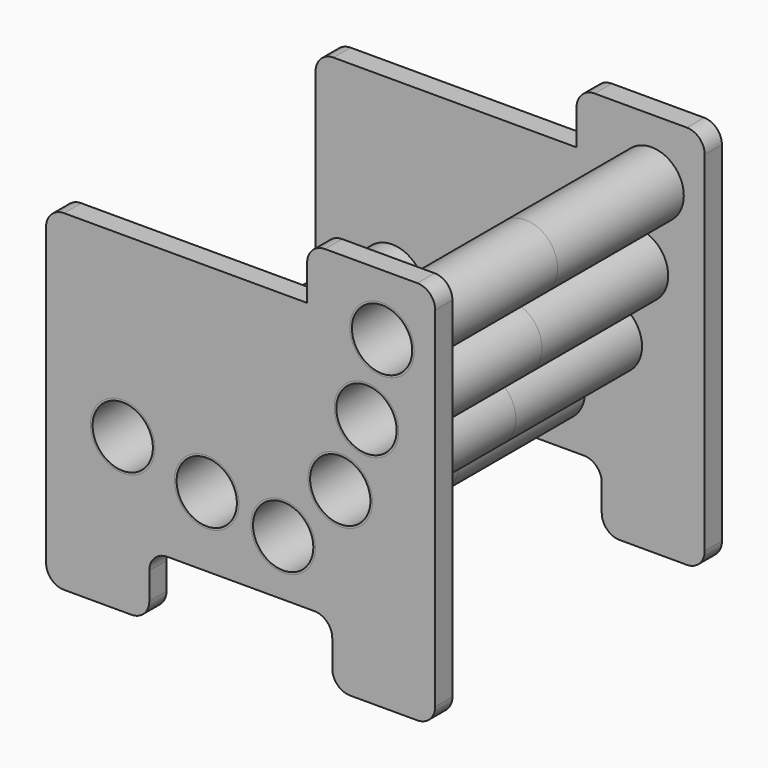
from build123d import *

# Parameters (mm, degrees)
F0_R     = 54
F0_R_2   = 50.5
F1_DEPTH = 300
F2_DEPTH = 36
F3_R     = 30


with BuildPart() as f1:
    # F0 (on Front) → F1 (new body)
    with BuildSketch(Plane.XZ):
        with Locations((2.838275, 31.916209)):
            Circle(F0_R)
        with Locations((2.838275, 31.916209)):
            Circle(F0_R_2, mode=Mode.SUBTRACT)
        with Locations((-23.267038, -94.512634)):
            Circle(F0_R)
        with Locations((-23.267038, -94.512634)):
            Circle(F0_R_2, mode=Mode.SUBTRACT)
        with Locations((-67.129791, -212.924823)):
            Circle(F0_R)
        with Locations((-67.129791, -212.924823)):
            Circle(F0_R_2, mode=Mode.SUBTRACT)
        with Locations((-162.713379, -312.140137)):
            Circle(F0_R)
        with Locations((-162.713379, -312.140137)):
            Circle(F0_R_2, mode=Mode.SUBTRACT)
        with Locations((-290.700555, -288.65701)):
            Circle(F0_R)
        with Locations((-290.700555, -288.65701)):
            Circle(F0_R_2, mode=Mode.SUBTRACT)
        with Locations((-431.335568, -252.593398)):
            Circle(F0_R)
        with Locations((-431.335568, -252.593398)):
            Circle(F0_R_2, mode=Mode.SUBTRACT)
    extrude(amount=F1_DEPTH)


with BuildPart() as f2:
    # F0 (on Front) → F2 (new body)
    with BuildSketch(Plane.XZ):
        Polygon((91.865547, -405.510087), (91.865547, 133.993775), (-117.666478, 133.993775), (-122.666478, 133.993775), (-122.621469, 44.798955), (-559.689343, 44.798955), (-559.689343, -405.510087), (-559.689343, -510.510087), (-386.821479, -510.510087), (-386.821479, -405.510087), (-80.547474, -405.510087), (-80.547474, -510.510087), (91.865547, -510.510087), align=None)
        with Locations((-431.335568, -252.593398)):
            Circle(F0_R, mode=Mode.SUBTRACT)
        with Locations((-290.700555, -288.65701)):
            Circle(F0_R, mode=Mode.SUBTRACT)
        with Locations((-162.713379, -312.140137)):
            Circle(F0_R, mode=Mode.SUBTRACT)
        with Locations((-67.129791, -212.924823)):
            Circle(F0_R, mode=Mode.SUBTRACT)
        with Locations((-23.267038, -94.512634)):
            Circle(F0_R, mode=Mode.SUBTRACT)
        with Locations((2.838275, 31.916209)):
            Circle(F0_R, mode=Mode.SUBTRACT)
    extrude(amount=F2_DEPTH)

    # F3
    f3_edges = [f2.edges().sort_by_distance(p)[0] for p in [
        (-122.666478, -18, 133.993775),
        (-559.689343, -18, 44.798955),
        (-559.689343, -18, -510.510087),
        (-386.821479, -18, -510.510087),
        (-80.547474, -18, -510.510087),
        (-80.547474, -18, -405.510087),
        (-386.821479, -18, -405.510087),
        (91.865547, -18, -510.510087),
        (91.865547, -18, 133.993775),
    ]]
    fillet(f3_edges, radius=F3_R)


with BuildPart() as f4_1:
    # F4: instance of F1
    add(f1.part.mirror(Plane(origin=(-23.267038, -300, -94.512634), x_dir=(1, 0, 0), z_dir=(0, -1, 0))))


with BuildPart() as f4_2:
    # F4: instance of F2
    add(f2.part.mirror(Plane(origin=(-23.267038, -300, -94.512634), x_dir=(1, 0, 0), z_dir=(0, -1, 0))))


solid = Compound([f1.part, f2.part, f4_1.part, f4_2.part])
